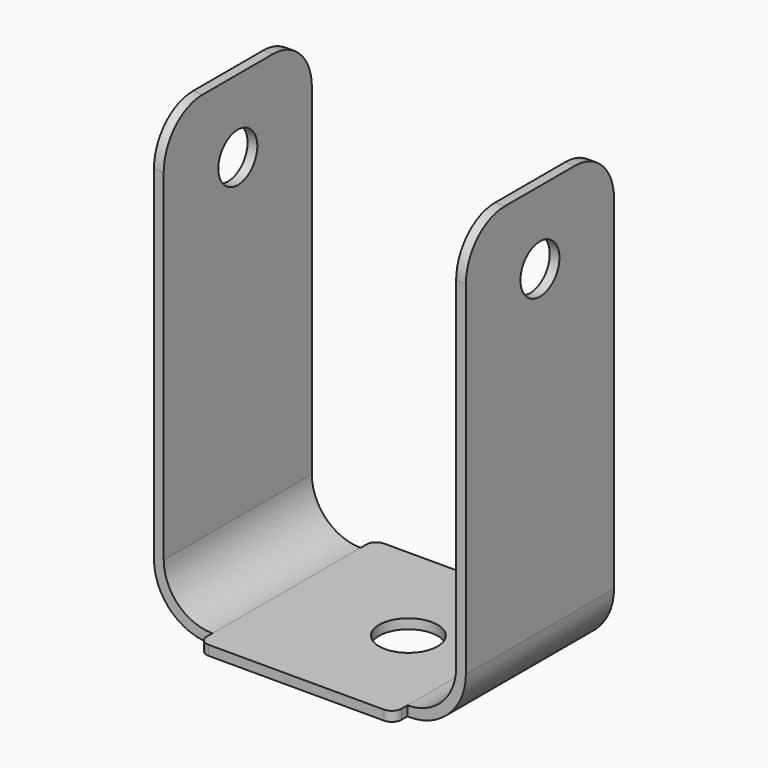
from build123d import *

# Parameters (mm, degrees)
F1_DEPTH  = 38
F3_D      = 12
F5_DEPTH  = 2
F6_R      = 10
F8_DEPTH  = 0.5
F10_DEPTH = 2
F12_D     = 10


with BuildPart() as f1:
    # F0 (on Front) → F1 (new body)
    with BuildSketch(Plane.XZ):
        with BuildLine():
            Line((20, 0), (0, 0))
            Line((0, 0), (-20, 0))
            ThreePointArc((-20, 0), (-27.0710678119, 2.9289321881), (-30, 10))
            Line((-30, 10), (-30, 90))
            Line((-30, 90), (-32, 90))
            Line((-32, 90), (-32, 9.5))
            ThreePointArc((-32, 9.5), (-28.6317279836, 1.3682720164), (-20.5, -2))
            Line((-20.5, -2), (0, -2))
            Line((0, -2), (20.5, -2))
            ThreePointArc((20.5, -2), (28.6317279836, 1.3682720164), (32, 9.5))
            Line((32, 9.5), (32, 90))
            Line((32, 90), (30, 90))
            Line((30, 90), (30, 10))
            ThreePointArc((30, 10), (27.0710678119, 2.9289321881), (20, 0))
        make_face()
    extrude(amount=F1_DEPTH)

    # F3 (through all)
    with Locations(Plane.XY):
        with Locations((5, -19)):
            Hole(F3_D / 2)

    # F4 (on face) → F5 (join)
    with BuildSketch(Plane(origin=(0, 0, -2), x_dir=(1, 0, 0), z_dir=(0, 0, -1))):
        with BuildLine():
            ThreePointArc((-1, 28.2195444573), (5, 30), (11, 28.2195444573))
            ThreePointArc((11, 28.2195444573), (11.8405728739, 27.8759539642), (12.6811457479, 28.2195444573))
            ThreePointArc((12.6811457479, 28.2195444573), (5, 31), (-2.6811457479, 28.2195444573))
            ThreePointArc((-2.6811457479, 28.2195444573), (-1.8405728739, 27.8759539642), (-1, 28.2195444573))
        make_face()
        with BuildLine():
            ThreePointArc((11, 9.7804555427), (5, 8), (-1, 9.7804555427))
            ThreePointArc((-1, 9.7804555427), (-1.8405728739, 10.1240460358), (-2.6811457479, 9.7804555427))
            ThreePointArc((-2.6811457479, 9.7804555427), (5, 7), (12.6811457479, 9.7804555427))
            ThreePointArc((12.6811457479, 9.7804555427), (11.8405728739, 10.1240460358), (11, 9.7804555427))
        make_face()
    extrude(amount=F5_DEPTH)

    # F6
    f6_edges = [f1.edges().sort_by_distance(p)[0] for p in [
        (-31, -38, 90),
        (31, -38, 90),
        (-31, 0, 90),
        (31, 0, 90),
    ]]
    fillet(f6_edges, radius=F6_R)

    # F7 (on face) → F8 (join)
    with BuildSketch(Plane(origin=(0, 0, -2), x_dir=(1, 0, 0), z_dir=(0, 0, -1))):
        Polygon((10, 36.75), (10, 37.5), (10, 38.25), (-10, 38.25), (-10, 36.75), align=None)
        Polygon((10, -0.25), (10, 0.5), (10, 1.25), (-10, 1.25), (-10, -0.25), align=None)
    extrude(amount=F8_DEPTH)

    # F9 (on face) → F10 (join)
    with BuildSketch(Plane.XY):
        with BuildLine():
            Line((-20, 1.5), (-20, 0))
            Line((-20, 0), (20, 0))
            Line((20, 0), (20, 1.5))
            ThreePointArc((20, 1.5), (19.4142135624, 2.9142135624), (18, 3.5))
            Line((18, 3.5), (-18, 3.5))
            ThreePointArc((-18, 3.5), (-19.4142135624, 2.9142135624), (-20, 1.5))
        make_face()
        with BuildLine():
            ThreePointArc((18, -41.5), (19.4142135624, -40.9142135624), (20, -39.5))
            Line((20, -39.5), (20, -38))
            Line((20, -38), (-20, -38))
            Line((-20, -38), (-20, -39.5))
            ThreePointArc((-20, -39.5), (-19.4142135624, -40.9142135624), (-18, -41.5))
            Line((-18, -41.5), (18, -41.5))
        make_face()
    extrude(amount=-F10_DEPTH)

    # F12 (through all)
    with Locations(Plane.YZ.offset(32)):
        with Locations((-19, 75)):
            Hole(F12_D / 2)


solid = f1.part
